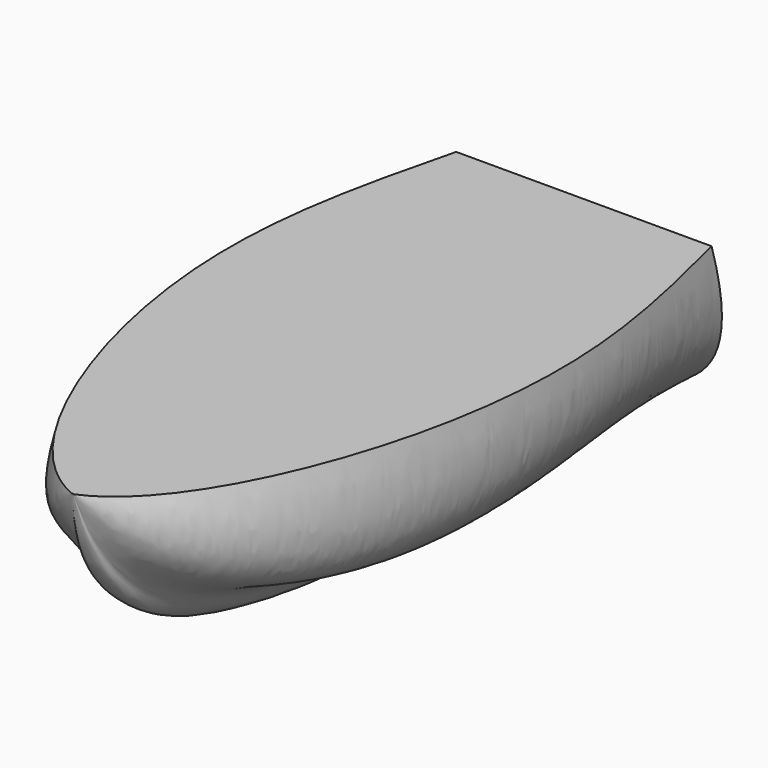
from build123d import *


with BuildPart() as part:
    # Sketch → AdditiveLoft section 0
    with BuildSketch(Plane.XZ.offset(-25)):
        with BuildLine():
            add(Edge.make_bspline(
                [(-10, 0), (-12.573833, -8.315781), (-4.205784, -10.971368), (-3.232199, -12.960957), (-2.339536, -14.459498), (-0.607684, -15), (0, -15)],
                knots=[0, 0, 0, 0, 0.25, 0.5, 0.75, 1, 1, 1, 1], degree=3))
            add(Edge.make_bspline(
                [(10, 0), (12.573833, -8.315781), (4.205784, -10.971368), (3.232199, -12.960957), (2.339536, -14.459498), (0.607684, -15), (0, -15)],
                knots=[0, 0, 0, 0, 0.25, 0.5, 0.75, 1, 1, 1, 1], degree=3))
            Line((10, 0), (-10, 0))
        make_face()
    # Sketch004 → AdditiveLoft section 1
    with BuildSketch(Plane.XZ.offset(-3)):
        with BuildLine():
            add(Edge.make_bspline(
                [(-12.811639, 0), (-14.318181, -8.876424), (-4.023364, -10.912738), (-3.208057, -12.953197), (-2.346924, -14.46187), (-0.607617, -15), (0, -15)],
                knots=[0, 0, 0, 0, 0.25, 0.5, 0.75, 1, 1, 1, 1], degree=3))
            add(Edge.make_bspline(
                [(12.811639, 0), (14.318181, -8.876424), (4.023364, -10.912738), (3.208057, -12.953197), (2.346924, -14.46187), (0.607617, -15), (0, -15)],
                knots=[0, 0, 0, 0, 0.25, 0.5, 0.75, 1, 1, 1, 1], degree=3))
            Line((12.811639, 0), (-12.811639, 0))
        make_face()
    # Sketch005 → AdditiveLoft section 2
    with BuildSketch(Plane.XZ.offset(10)):
        with BuildLine():
            add(Edge.make_bspline(
                [(-10.229179, 0), (-12.068552, -8.572704), (-4.229363, -9.856806), (-2.656413, -12.235954), (-2.246138, -12.91213), (-0.72907, -13.694991), (0, -13.694991)],
                knots=[0, 0, 0, 0, 0.25, 0.5, 0.75, 1, 1, 1, 1], degree=3))
            add(Edge.make_bspline(
                [(10.229179, 0), (12.068552, -8.572704), (4.229363, -9.856774), (2.656413, -12.236058), (2.246138, -12.912915), (0.72907, -13.694991), (0, -13.694991)],
                knots=[0, 0, 0, 0, 0.25, 0.5, 0.75, 1, 1, 1, 1], degree=3))
            Line((10.229179, 0), (-10.229179, 0))
        make_face()
    # Sketch006 → AdditiveLoft section 3
    with BuildSketch(Plane.XZ.offset(20)):
        with BuildLine():
            add(Edge.make_bspline(
                [(-5.528413, 0), (-7.122505, -4.945542), (-2.607636, -6.972892), (-1.755141, -8.076705), (-1.345081, -8.352546), (-1.089949, -9.500938), (0, -9.500938)],
                knots=[0, 0, 0, 0, 0.25, 0.5, 0.75, 1, 1, 1, 1], degree=3))
            add(Edge.make_bspline(
                [(5.528413, 0), (7.122505, -4.945542), (2.607636, -6.972869), (1.755141, -8.07678), (1.345081, -8.35311), (1.089949, -9.500938), (0, -9.500938)],
                knots=[0, 0, 0, 0, 0.25, 0.5, 0.75, 1, 1, 1, 1], degree=3))
            Line((5.528413, 0), (-5.528413, 0))
        make_face()
    # Sketch007 → AdditiveLoft section 4
    with BuildSketch(Plane.XZ.offset(25)):
        with BuildLine():
            add(Edge.make_bspline(
                [(-0.101026, 0), (-0.109567, -0.045256), (-0.065265, -0.073516), (-0.027769, -0.07321), (-0.020207, -0.089585), (-0.012437, -0.099343), (0, -0.099343)],
                knots=[0, 0, 0, 0, 0.25, 0.5, 0.75, 1, 1, 1, 1], degree=3))
            add(Edge.make_bspline(
                [(0.101026, 0), (0.109567, -0.045256), (0.065265, -0.073515), (0.027769, -0.073212), (0.020207, -0.0896), (0.012437, -0.099343), (0, -0.099343)],
                knots=[0, 0, 0, 0, 0.25, 0.5, 0.75, 1, 1, 1, 1], degree=3))
            Line((0.101026, 0), (-0.101026, 0))
        make_face()
    loft()


solid = part.part
